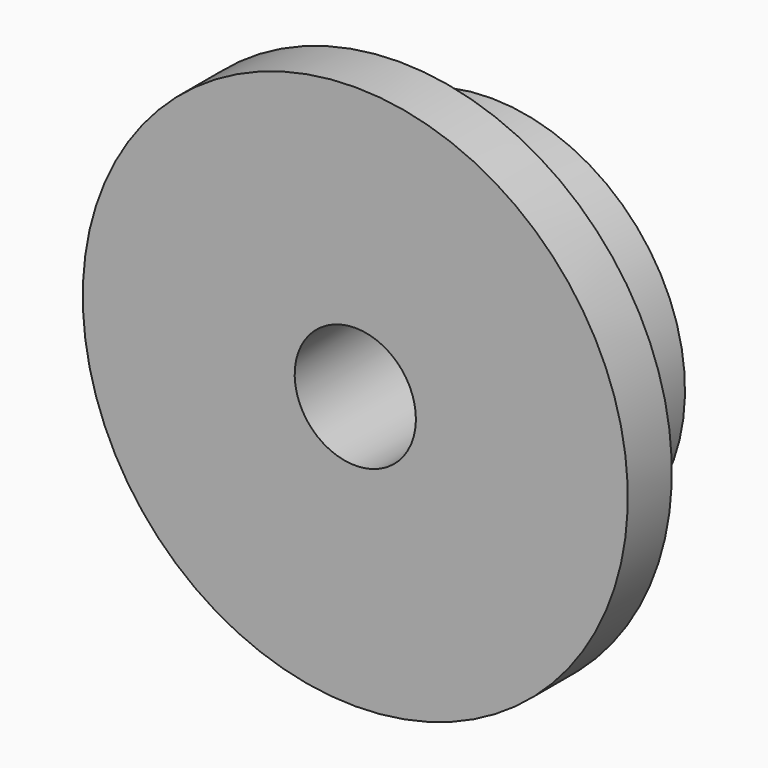
from build123d import *

# Parameters (mm, degrees)
F0_W   = 7.2136
F0_H   = 10.287
F0_H_2 = 17.4625
F0_W_2 = 15.0114


with BuildPart() as f1:
    # F0 (on Right) → F1 (revolve)
    with BuildSketch(Plane.YZ):
        with Locations((3.6068, 30.5435)):
            Rectangle(F0_W, F0_H)
        with Locations((3.6068, 16.66875)):
            Rectangle(F0_W, F0_H_2)
        with Locations((14.7193, 16.66875)):
            Rectangle(F0_W_2, F0_H_2)
    revolve(axis=Axis((0, 11.1125, 0), (0, 1, 0)))


solid = f1.part
